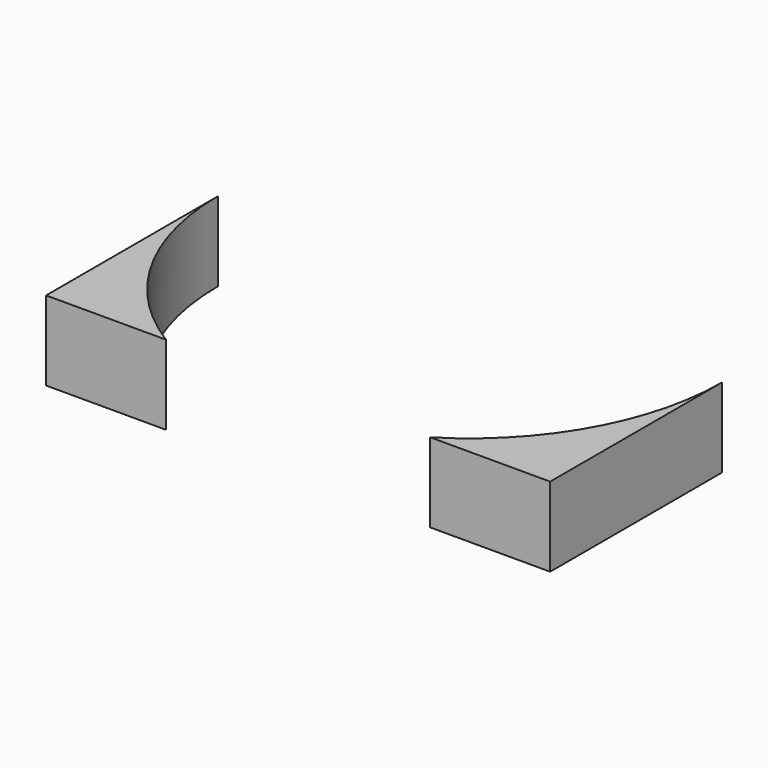
from build123d import *

# Parameters (mm, degrees)
CYLINDER116_R               = 1.5
CYLINDER116_DEPTH           = 4
CYLINDER115_R               = 1.5
CYLINDER115_DEPTH           = 100
BOX037_W                    = 2
BOX037_H                    = 6
BOX037_DEPTH                = 6
COMPOUND032_PLACEMENT_ANGLE = 90
CYLINDER118_R               = 1.5
CYLINDER118_DEPTH           = 4
CYLINDER117_R               = 1.5
CYLINDER117_DEPTH           = 100
BOX036_W                    = 2
BOX036_H                    = 6
BOX036_DEPTH                = 6
COMPOUND_PLACEMENT_ANGLE    = 90
CYLINDER113_R               = 54
CYLINDER113_DEPTH           = 17
BOX035_W                    = 108
BOX035_H                    = 46
BOX035_DEPTH                = 17


with BuildPart() as obj1:
    # Cylinder116 → Cylinder116 (new body)
    with BuildSketch(Plane(origin=(-4, 3, 3), x_dir=(0, 0, -1), z_dir=(1, 0, 0))):
        Circle(CYLINDER116_R)
    extrude(amount=CYLINDER116_DEPTH)


with BuildPart() as obj2:
    # Cylinder115 → Cylinder115 (new body)
    with BuildSketch(Plane(origin=(2, 3, 3), x_dir=(0, 0, -1), z_dir=(1, 0, 0))):
        Circle(CYLINDER115_R)
    extrude(amount=CYLINDER115_DEPTH)


with BuildPart() as compound032:
    # Box037 → Box037 (new body)
    with BuildSketch(Plane.XY):
        with Locations((1, 3)):
            Rectangle(BOX037_W, BOX037_H)
    extrude(amount=BOX037_DEPTH)

    # Compound032: union obj1, obj2
    add(obj1.part)
    add(obj2.part)


with BuildPart() as compound032_1:
    # Compound032 placement: moved
    add(compound032.part.moved(Location((-54, 166, 27))).rotate(Axis((-54, 166, 27), (0, 0, -1)), COMPOUND032_PLACEMENT_ANGLE))


with BuildPart() as obj3:
    # Cylinder118 → Cylinder118 (new body)
    with BuildSketch(Plane(origin=(-4, 3, 3), x_dir=(0, 0, -1), z_dir=(1, 0, 0))):
        Circle(CYLINDER118_R)
    extrude(amount=CYLINDER118_DEPTH)


with BuildPart() as obj4:
    # Cylinder117 → Cylinder117 (new body)
    with BuildSketch(Plane(origin=(2, 3, 3), x_dir=(0, 0, -1), z_dir=(1, 0, 0))):
        Circle(CYLINDER117_R)
    extrude(amount=CYLINDER117_DEPTH)


with BuildPart() as fusion003:
    # Box036 → Box036 (new body)
    with BuildSketch(Plane.XY):
        with Locations((1, 3)):
            Rectangle(BOX036_W, BOX036_H)
    extrude(amount=BOX036_DEPTH)

    # Compound: union obj3, obj4
    add(obj3.part)
    add(obj4.part)


with BuildPart() as fusion003_1:
    # Compound placement: moved
    add(fusion003.part.moved(Location((48, 166, 27))).rotate(Axis((48, 166, 27), (0, 0, -1)), COMPOUND_PLACEMENT_ANGLE))

    # Fusion003: union Compound032
    add(compound032_1.part)


with BuildPart() as obj5:
    # Cylinder113 → Cylinder113 (new body)
    with BuildSketch(Plane.XY.offset(20)):
        Circle(CYLINDER113_R)
    extrude(amount=CYLINDER113_DEPTH)


with BuildPart() as cut016:
    # Box035 → Box035 (new body)
    with BuildSketch(Plane(origin=(-54, -46, 20), x_dir=(1, 0, 0), z_dir=(0, 0, 1))):
        with Locations((54, 23)):
            Rectangle(BOX035_W, BOX035_H)
    extrude(amount=BOX035_DEPTH)

    # Cut: cut obj5
    add(obj5.part, mode=Mode.SUBTRACT)

    # Cut016: cut Fusion003
    add(fusion003_1.part, mode=Mode.SUBTRACT)


solid = cut016.part
